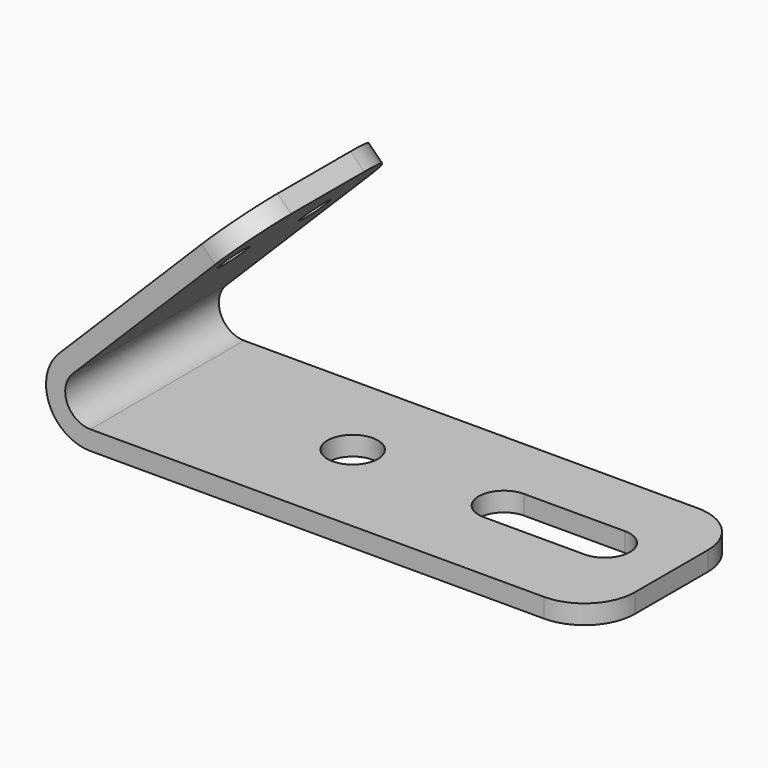
from build123d import *

# Parameters (mm, degrees)
F1_DEPTH = 19.05
F2_R     = 2.5
F3_DEPTH = 1.901
F4_R     = 5
F5_R     = 5
F6_R     = 1.5
F7_DEPTH = 1.9


with BuildPart() as f1:
    # F0 (on Front) → F1 (new body)
    with BuildSketch(Plane.XZ):
        with BuildLine():
            Line((14.5663996924, 20.7889393669), (-3.1112698372, 3.1112698372))
            ThreePointArc((-3.1112698372, 3.1112698372), (-4.065069943, -1.6838071024), (0, -4.4))
            Line((0, -4.4), (50, -4.4))
            Line((50, -4.4), (50, -2.5))
            Line((50, -2.5), (0, -2.5))
            ThreePointArc((0, -2.5), (-2.3096988313, -0.9567085809), (-1.767766953, 1.767766953))
            Line((-1.767766953, 1.767766953), (15.9099025767, 19.4454364826))
            Line((15.9099025767, 19.4454364826), (14.5663996924, 20.7889393669))
        make_face()
    extrude(amount=F1_DEPTH)

    # F2 (on face) → F3 (cut, through all)
    with BuildSketch(Plane.XY.offset(-2.5)):
        with Locations((18, -9.030575864)):
            Circle(F2_R)
        with BuildLine():
            Line((33, -11.530575864), (43, -11.530575864))
            ThreePointArc((43, -11.530575864), (45.5, -9.030575864), (43, -6.530575864))
            Line((43, -6.530575864), (33, -6.530575864))
            ThreePointArc((33, -6.530575864), (30.5, -9.030575864), (33, -11.530575864))
        make_face()
    extrude(amount=-F3_DEPTH, mode=Mode.SUBTRACT)

    # F4
    f4_edges = [f1.edges().sort_by_distance(p)[0] for p in [
        (50, -19.05, -3.45),
        (50, 0, -3.45),
    ]]
    fillet(f4_edges, radius=F4_R)

    # F5
    f5_edges = [f1.edges().sort_by_distance(p)[0] for p in [
        (15.238151, -19.05, 20.117188),
        (15.238151, 0, 20.117188),
    ]]
    fillet(f5_edges, radius=F5_R)

    # F6 (on face) → F7 (cut, through all)
    with BuildSketch(Plane(origin=(-3.1112698372, 0, 3.1112698372), x_dir=(0, -1, 0), z_dir=(-0.7071067812, 0, 0.7071067812))):
        with Locations((4.5, 17.5)):
            Circle(F6_R)
        with Locations((14.55, 17.5)):
            Circle(F6_R)
    extrude(amount=-F7_DEPTH, mode=Mode.SUBTRACT)


solid = f1.part
